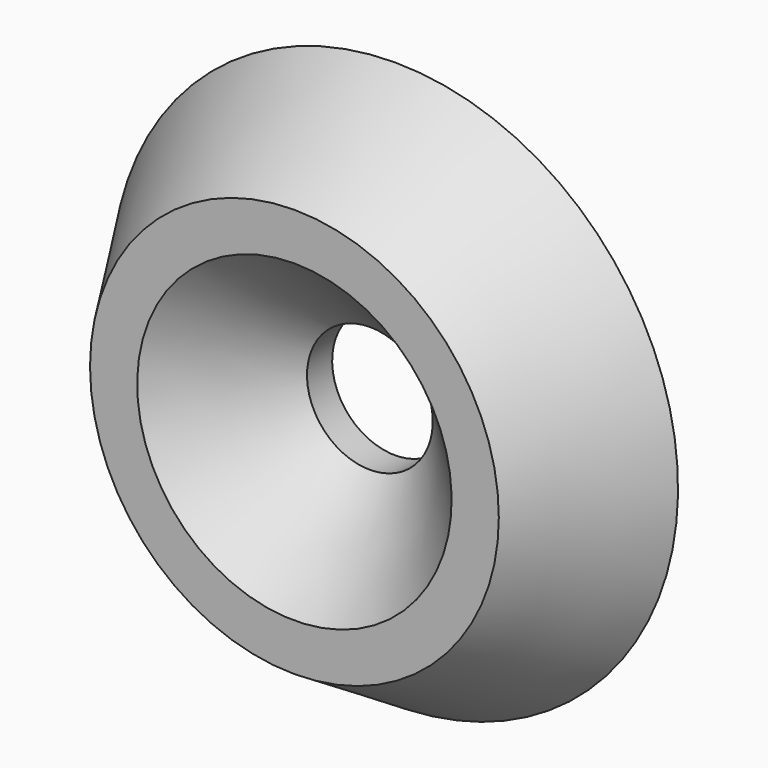
from build123d import *


with BuildPart() as f1:
    # F0 (on Right) → F1 (revolve)
    with BuildSketch(Plane.YZ):
        Polygon((-1, 2), (0, 2), (0, 9), (-4, 6.5), (-4, 5), align=None)
    revolve(axis=Axis((0, -2, 0), (0, -1, 0)))


solid = f1.part
